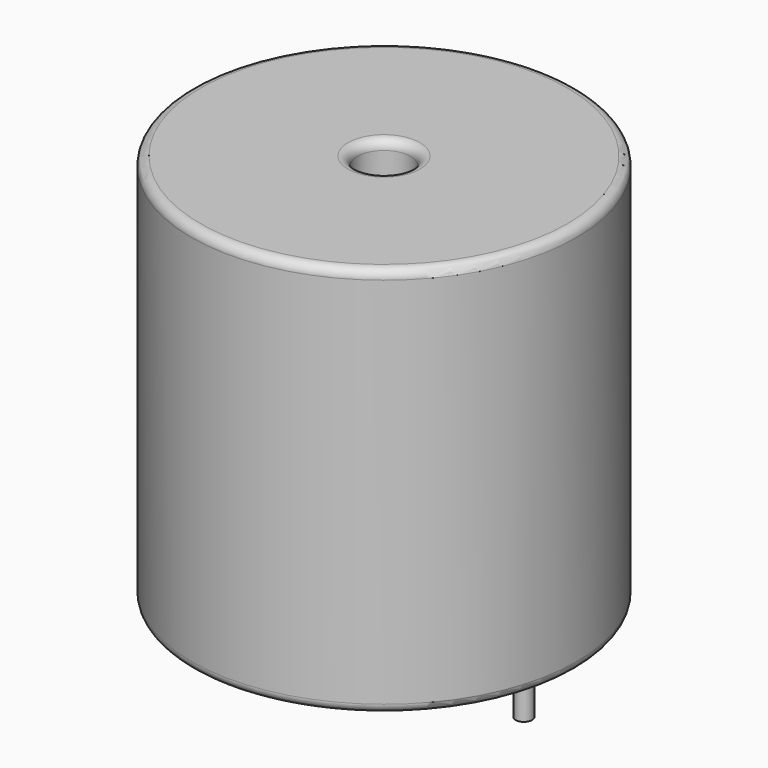
from build123d import *

# Parameters (mm, degrees)
SKETCH001_R       = 0.45
PAD001_DEPTH      = 10.67
PAD001_DEPTH_BACK = 3.5
SKETCH_R          = 10.5
SKETCH_R_2        = 1.46
PAD_DEPTH         = 21.34
FILLET_R          = 0.5


with BuildPart() as pad001:
    # Sketch001 → Pad001 (new body, two sides)
    with BuildSketch(Plane.XY.offset(0.5)) as pad001_sk:
        Circle(SKETCH001_R)
        with Locations((15.24, 0)):
            Circle(SKETCH001_R)
    extrude(amount=PAD001_DEPTH)
    extrude(pad001_sk.sketch, amount=-PAD001_DEPTH_BACK)


with BuildPart() as fillet_body:
    # Sketch → Pad (new body)
    with BuildSketch(Plane.XY.offset(0.1)):
        with Locations((7.62, 0)):
            Circle(SKETCH_R)
        with Locations((7.62, 0)):
            Circle(SKETCH_R_2, mode=Mode.SUBTRACT)
    extrude(amount=PAD_DEPTH)

    # Fillet
    fillet_edges = [fillet_body.edges().sort_by_distance(p)[0] for p in [
        (6.16, 0, 21.44),
        (-2.88, 0, 21.44),
        (-2.88, 0, 0.1),
    ]]
    fillet(fillet_edges, radius=FILLET_R)


solid = Compound([pad001.part, fillet_body.part])
